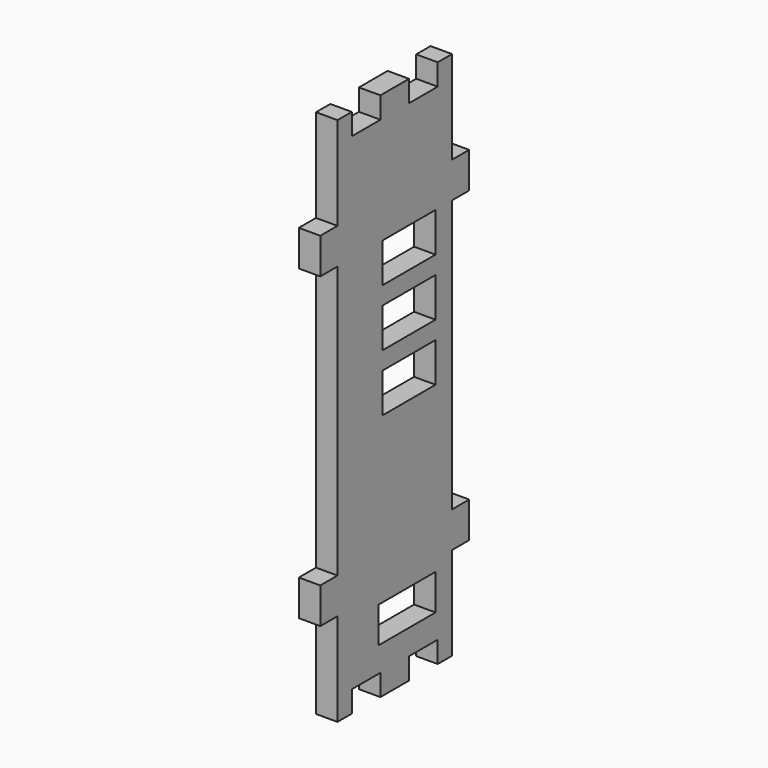
from build123d import *

# Parameters (mm, degrees)
F0_W     = 20
F0_H     = 10
F0_W_2   = 18.5
F0_H_2   = 11
F1_DEPTH = 6


with BuildPart() as f1:
    # F0 (on Right) → F1 (new body)
    with BuildSketch(Plane.YZ):
        Polygon((-60.931503, 42.813338), (-54.931503, 42.813338), (-54.931503, -33.186662), (-60.931503, -33.186662), (-60.931503, -43.186662), (-54.931503, -43.186662), (-54.931503, -69.186662), (-49.931503, -69.186662), (-49.931503, -63.186662), (-39.931503, -63.186662), (-39.931503, -69.186662), (-29.931503, -69.186662), (-29.931503, -63.186662), (-19.931503, -63.186662), (-19.931503, -69.186662), (-14.931503, -69.186662), (-14.931503, -43.186662), (-8.931503, -43.186662), (-8.931503, -33.186662), (-14.931503, -33.186662), (-14.931503, 42.813338), (-8.931503, 42.813338), (-8.931503, 52.813338), (-14.931503, 52.813338), (-14.931503, 78.813338), (-19.931503, 78.813338), (-19.931503, 72.813338), (-29.931503, 72.813338), (-29.931503, 78.813338), (-39.931503, 78.813338), (-39.931503, 72.813338), (-49.931503, 72.813338), (-49.931503, 78.813338), (-54.931503, 78.813338), (-54.931503, 52.813338), (-60.931503, 52.813338), align=None)
        with Locations((-30.681503, -51.186662)):
            Rectangle(F0_W, F0_H, mode=Mode.SUBTRACT)
        with Locations((-29.931503, 5.313338)):
            Rectangle(F0_W_2, F0_H_2, mode=Mode.SUBTRACT)
        with Locations((-29.931503, 21.313338)):
            Rectangle(F0_W_2, F0_H_2, mode=Mode.SUBTRACT)
        with Locations((-29.931503, 37.313338)):
            Rectangle(F0_W_2, F0_H_2, mode=Mode.SUBTRACT)
    extrude(amount=F1_DEPTH)


solid = f1.part
